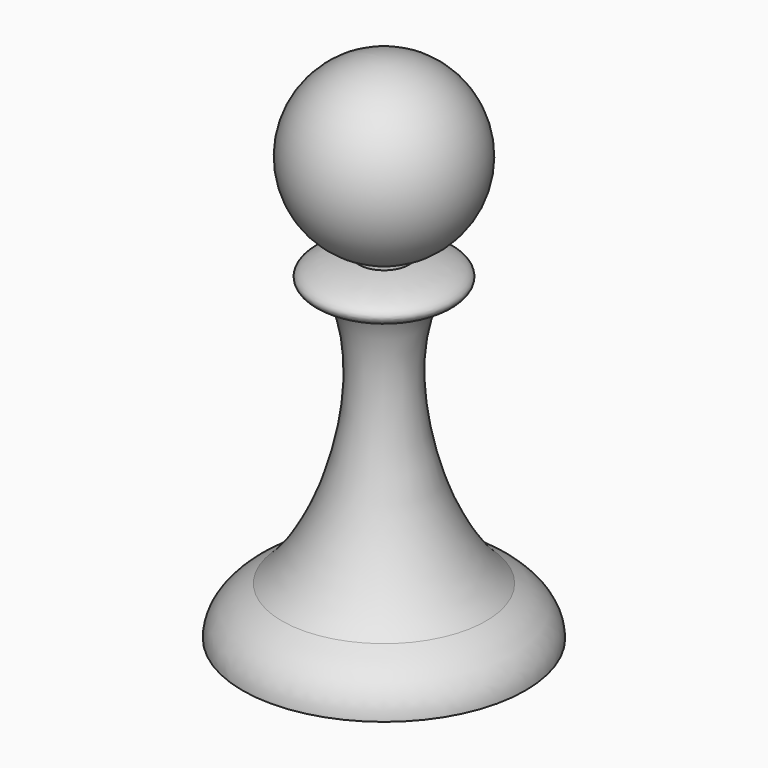
from build123d import *


with BuildPart() as f1:
    # F0 (on Front) → F1 (revolve)
    with BuildSketch(Plane.XZ):
        with BuildLine():
            Line((-14.5999034867, 0), (0, 0))
            Line((0, 0), (0, 52.6694711283))
            ThreePointArc((0, 52.6694711283), (-8.7940484338, 45.0820885486), (-2.5771160144, 35.2712061437))
            Line((-2.5771160144, 35.2712061437), (-2.5771160144, 34.7579771647))
            add(Edge.make_bspline(
                [(-2.5771160144, 34.7579771647), (-14.2066981067, 33.5301532154), (-4.6797294918, 31.3005741378)],
                knots=[5.0741121572, 5.0741121572, 5.0741121572, 7.1560755757, 7.1560755757, 7.1560755757], degree=2, weights=[1, 0.5053733832, 1]))
            add(Edge.make_bspline(
                [(-10.5302005467, 4.9877006537), (2.9151925574, 17.3372678868), (-4.6797294918, 31.3005741378)],
                knots=[0.6319081519, 0.6319081519, 0.6319081519, 2.6820746423, 2.6820746423, 2.6820746423], degree=2, weights=[1, 0.5190277342, 1]))
            add(Edge.make_bspline(
                [(-10.5302005467, 4.9877006537), (-14.5999034867, 2.897717736), (-14.5999034867, 0)],
                knots=[5.5179961997, 5.5179961997, 5.5179961997, 6.2831853072, 6.2831853072, 6.2831853072], degree=2, weights=[1, 0.9276991378, 1]))
        make_face()
    revolve(axis=Axis((0, 0, 26.3347355642), (0, 0, 1)))


solid = f1.part
